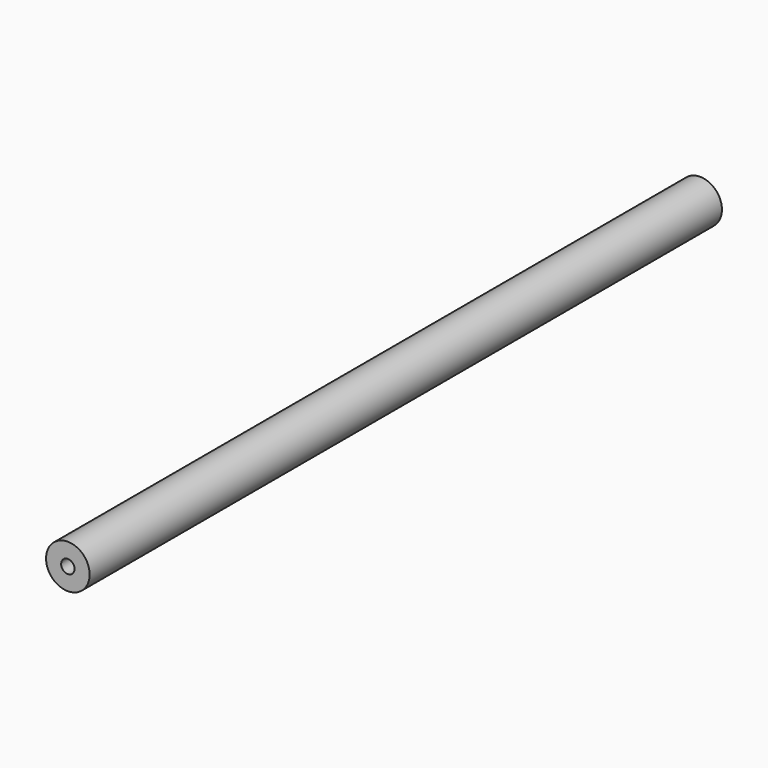
from build123d import *

# Parameters (mm, degrees)
F0_R     = 8
F1_DEPTH = 290
F3_D     = 4.91
F3_DEPTH = 20
F3_TIP   = 1.4751128197
F5_D     = 4.91
F5_DEPTH = 20
F5_TIP   = 1.4751128197


with BuildPart() as f1:
    # F0 (on Front) → F1 (new body)
    with BuildSketch(Plane.XZ):
        with Locations((-12.9452068359, 5.5899755098)):
            Circle(F0_R)
    extrude(amount=F1_DEPTH)

    # F3
    with Locations(Plane.XZ.offset(290)):
        with Locations((-12.9452068359, 5.5899755098)):
            Hole(F3_D / 2, depth=F3_DEPTH)
            with Locations((0, 0, -(F3_DEPTH + F3_TIP / 2))):  # 118° drill point
                Cone(0, F3_D / 2, F3_TIP, mode=Mode.SUBTRACT)

    # F5
    with Locations(Plane(origin=(0, 0, 0), x_dir=(-1, 0, 0), z_dir=(0, 1, 0))):
        with Locations((12.9452068359, 5.5899755098)):
            Hole(F5_D / 2, depth=F5_DEPTH)
            with Locations((0, 0, -(F5_DEPTH + F5_TIP / 2))):  # 118° drill point
                Cone(0, F5_D / 2, F5_TIP, mode=Mode.SUBTRACT)


solid = f1.part
